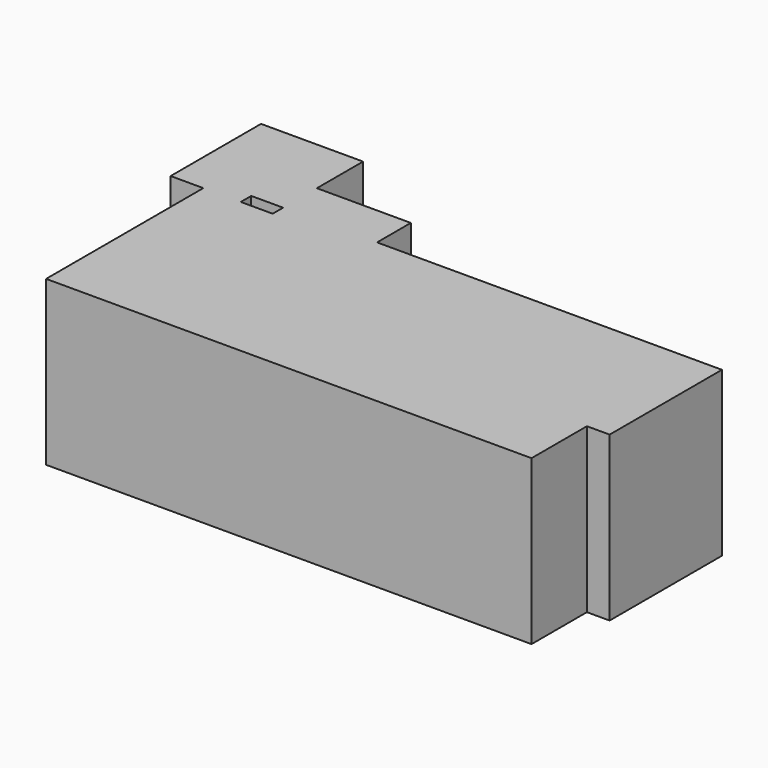
from build123d import *

# Parameters (mm, degrees)
F0_W     = 14.5715866238
F0_H     = 6.5456330776
F0_W_2   = 4.949297756
F0_W_3   = 5.8135613799
F0_H_2   = 2.0267963409
F0_W_4   = 3.5245139152
F0_H_3   = 21.7774156481
F1_DEPTH = 25.4


with BuildPart() as f1:
    # F0 (on Top) → F1 (new body)
    with BuildSketch(Plane.XY):
        Polygon((-33.7974205613, 48.0205528438), (-49.6319867671, 48.0205528438), (-49.6319867671, 30.4928608239), (-44.5602796972, 30.4928608239), (-44.5602796972, 32.5196571648), (-38.7467183173, 32.5196571648), (-38.7467183173, 39.0652902424), (-33.7974205613, 39.0652902424), align=None)
        with Locations((-26.5116272494, 35.7924737036)):
            Rectangle(F0_W, F0_H)
        with Locations((-36.2720694393, 35.7924737036)):
            Rectangle(F0_W_2, F0_H)
        with Locations((-41.6534990072, 31.5062589943)):
            Rectangle(F0_W_3, F0_H_2)
        Polygon((-38.7467183173, 30.4928608239), (-44.5602796972, 30.4928608239), (-44.5602796972, 0), (30.7543519884, 0), (30.7543519884, 10.7422415167), (30.7543519884, 32.5196571648), (-19.2258339375, 32.5196571648), (-19.2258339375, 9.3785366043), (-38.7467183173, 9.3785366043), align=None)
        Polygon((-19.2258339375, 32.5196571648), (-33.7974205613, 32.5196571648), (-33.7974205613, 30.4928608239), (-38.7467183173, 30.4928608239), (-38.7467183173, 9.3785366043), (-19.2258339375, 9.3785366043), align=None)
        with Locations((32.516608946, 21.6309493408)):
            Rectangle(F0_W_4, F0_H_3)
    extrude(amount=-F1_DEPTH)


solid = f1.part
